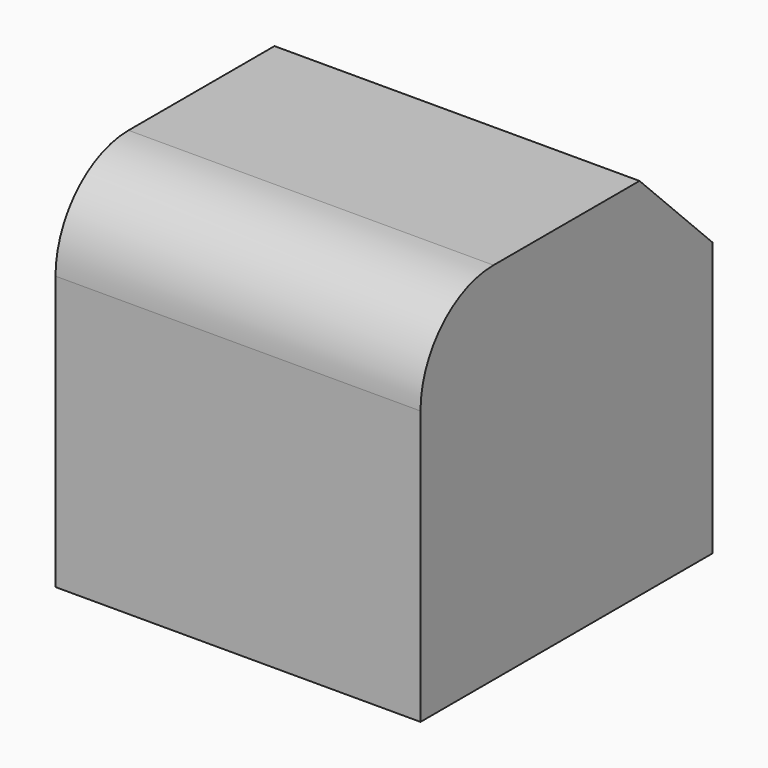
from build123d import *

# Parameters (mm, degrees)
F0_W     = 20
F0_H     = 20
F1_DEPTH = 20
F2_SIZE  = 5
F3_R     = 5


with BuildPart() as f1:
    # F0 (on Top) → F1 (new body)
    with BuildSketch(Plane.XY):
        Rectangle(F0_W, F0_H)
    extrude(amount=F1_DEPTH)

    # F2
    f2_edges = [f1.edges().sort_by_distance(p)[0] for p in [
        (0, 10, 20),
    ]]
    chamfer(f2_edges, length=F2_SIZE)

    # F3
    f3_edges = [f1.edges().sort_by_distance(p)[0] for p in [
        (0, -10, 20),
    ]]
    fillet(f3_edges, radius=F3_R)


solid = f1.part
